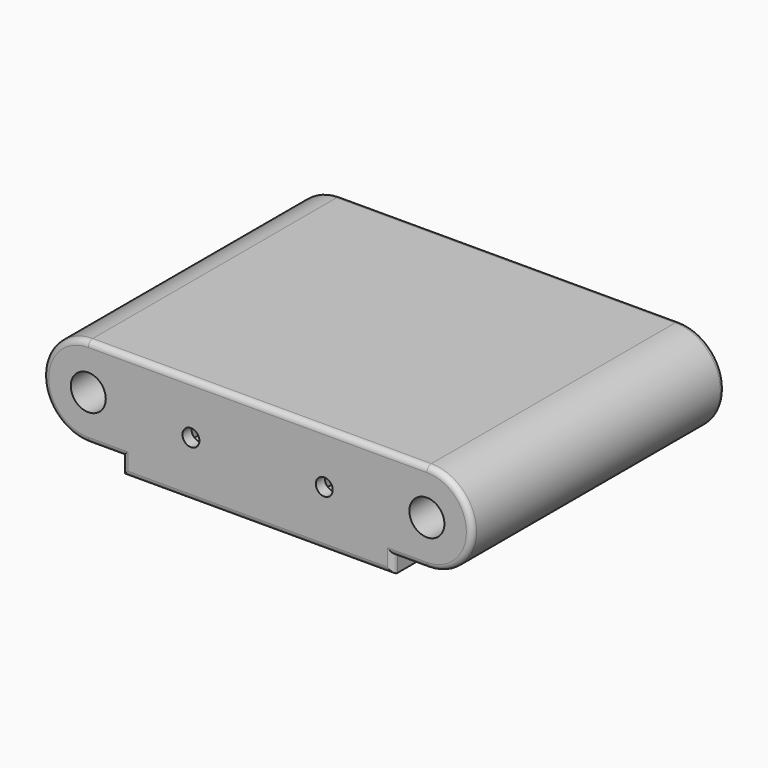
from build123d import *

# Parameters (mm, degrees)
F0_R     = 1.55
F0_W     = 8
F0_H     = 7
F0_R_2   = 0.75
F1_DEPTH = 28
F2_DEPTH = 27
F3_R     = 0.5
F4_R     = 0.5


with BuildPart() as f1:
    # F0 (on Front) → F1 (new body)
    with BuildSketch(Plane.XZ):
        with BuildLine():
            ThreePointArc((15, -4), (19, 0), (15, 4))
            Line((15, 4), (0, 4))
            Line((0, 4), (-15, 4))
            ThreePointArc((-15, 4), (-19, 0), (-15, -4))
            Line((-15, -4), (-12, -4))
            Line((-12, -4), (-12, -5))
            Line((-12, -5), (-12, -5.5))
            Line((-12, -5.5), (0, -5.5))
            Line((0, -5.5), (12, -5.5))
            Line((12, -5.5), (12, -5))
            Line((12, -5), (12, -4))
            Line((12, -4), (15, -4))
        make_face()
        with Locations((-15, 0)):
            Circle(F0_R, mode=Mode.SUBTRACT)
        with Locations((-5.906985, -0.57222)):
            Rectangle(F0_W, F0_H, mode=Mode.SUBTRACT)
        with Locations((5.906985, -0.57222)):
            Rectangle(F0_W, F0_H, mode=Mode.SUBTRACT)
        with Locations((15, 0)):
            Circle(F0_R, mode=Mode.SUBTRACT)
        with Locations((5.906985, -0.57222)):
            Rectangle(F0_W, F0_H)
        with Locations((5.906985, -0.57222)):
            Circle(F0_R_2, mode=Mode.SUBTRACT)
        with Locations((-5.906985, -0.57222)):
            Rectangle(F0_W, F0_H)
        with Locations((-5.906985, -0.57222)):
            Circle(F0_R_2, mode=Mode.SUBTRACT)
    extrude(amount=F1_DEPTH)

    # F0 (on Front) → F2 (cut)
    with BuildSketch(Plane.XZ):
        with Locations((5.906985, -0.57222)):
            Rectangle(F0_W, F0_H)
        with Locations((5.906985, -0.57222)):
            Circle(F0_R_2, mode=Mode.SUBTRACT)
        with Locations((-5.906985, -0.57222)):
            Rectangle(F0_W, F0_H)
        with Locations((-5.906985, -0.57222)):
            Circle(F0_R_2, mode=Mode.SUBTRACT)
    extrude(amount=F2_DEPTH, mode=Mode.SUBTRACT)

    # F3
    f3_edges = [f1.edges().sort_by_distance(p)[0] for p in [
        (0, 0, 4),
        (-13.5, 0, -4),
        (0, 0, -5.5),
        (-12, 0, -4.75),
        (12, 0, -4.75),
        (13.5, 0, -4),
        (19, 0, 0),
        (-19, 0, 0),
    ]]
    fillet(f3_edges, radius=F3_R)

    # F4
    f4_edges = [f1.edges().sort_by_distance(p)[0] for p in [
        (0, -28, 4),
        (-19, -28, 0),
        (-13.5, -28, -4),
        (-12, -28, -4.75),
        (0, -28, -5.5),
        (12, -28, -4.75),
        (13.5, -28, -4),
        (19, -28, 0),
    ]]
    fillet(f4_edges, radius=F4_R)


solid = f1.part
